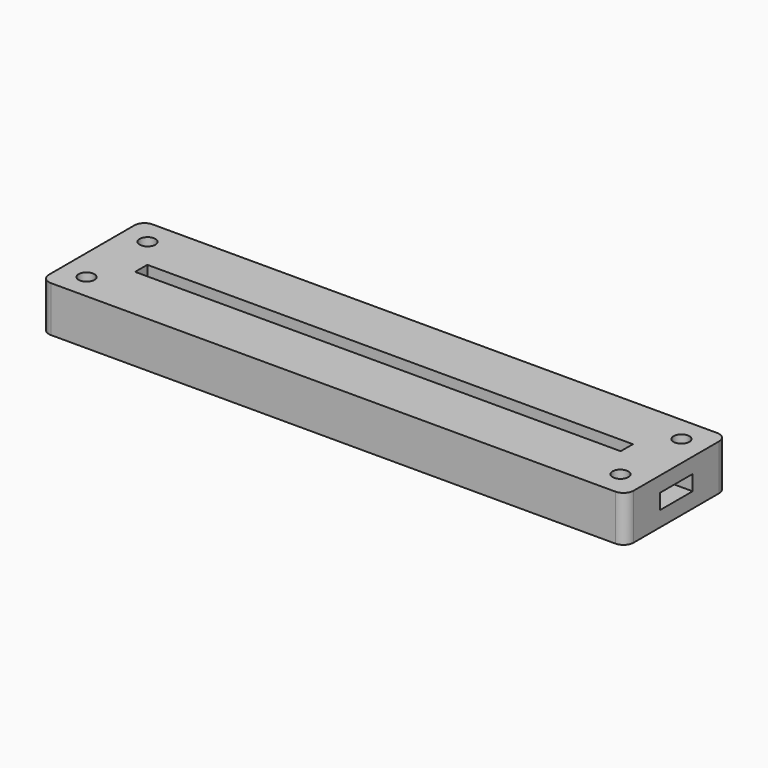
from build123d import *

# Parameters (mm, degrees)
SKETCH_W              = 115
SKETCH_H              = 25
PAD_DEPTH             = 3
PAD001_DEPTH          = 3
SKETCH002_W           = 115
SKETCH002_H           = 25
SKETCH002_W_2         = 95.5
SKETCH002_H_2         = 3
PAD002_DEPTH          = 3
SKETCH003_R           = 1.55
POCKET_DEPTH          = 245.060315
POLARPATTERN_COUNT    = 2
POLARPATTERN001_COUNT = 2
POLARPATTERN002_COUNT = 2
FILLET_R              = 2


with BuildPart() as part:
    # Sketch → Pad (new body)
    with BuildSketch(Plane.XY):
        Rectangle(SKETCH_W, SKETCH_H)
    extrude(amount=PAD_DEPTH)

    # Sketch001 (on Face6 of Pad) → Pad001 (join)
    with BuildSketch(Plane.XY.offset(3)):
        Polygon((-57.5, 12.5), (57.5, 12.5), (57.5, 4), (50, 4), (50, 5), (-50, 5), (-50, 4), (-57.5, 4), align=None)
        Polygon((-57.5, -12.5), (57.5, -12.5), (57.5, -4), (50, -4), (50, -5), (-50, -5), (-50, -4), (-57.5, -4), align=None)
    extrude(amount=PAD001_DEPTH)

    # Sketch002 (on Face12 of Pad001) → Pad002 (join)
    with BuildSketch(Plane.XY.offset(6)):
        Rectangle(SKETCH002_W, SKETCH002_H)
        Rectangle(SKETCH002_W_2, SKETCH002_H_2, mode=Mode.SUBTRACT)
    extrude(amount=PAD002_DEPTH)

    # Sketch003 (on Face26 of Pad002) → Pocket (cut, through all)
    with BuildSketch(Plane.XY.offset(9)):
        with Locations((-52.5, 7.5)):
            Circle(SKETCH003_R)
    pocket = extrude(amount=-POCKET_DEPTH, mode=Mode.SUBTRACT)

    # PolarPattern: Pocket ×2 about axis
    polarpattern_axis = Axis((0, 0, 0), (0, 1, 0))
    for i in range(1, POLARPATTERN_COUNT):
        add(pocket.rotate(polarpattern_axis, i * 360 / POLARPATTERN_COUNT), mode=Mode.SUBTRACT)

    # PolarPattern001: Pocket ×2 about axis
    polarpattern001_axis = Axis((0, 0, 0), (1, 0, 0))
    for i in range(1, POLARPATTERN001_COUNT):
        add(pocket.rotate(polarpattern001_axis, i * 360 / POLARPATTERN001_COUNT), mode=Mode.SUBTRACT)

    # PolarPattern002: Pocket ×2 about axis
    polarpattern002_axis = Axis((0, 0, 9), (0, 0, 1))
    for i in range(1, POLARPATTERN002_COUNT):
        add(pocket.rotate(polarpattern002_axis, i * 360 / POLARPATTERN002_COUNT), mode=Mode.SUBTRACT)

    # Fillet
    fillet_edges = [part.edges().sort_by_distance(p)[0] for p in [
        (57.5, 12.5, 7.5),
        (57.5, 12.5, 4.5),
        (57.5, 12.5, 1.5),
        (57.5, -12.5, 7.5),
        (-57.5, 12.5, 7.5),
        (-57.5, -12.5, 7.5),
    ]]
    fillet(fillet_edges, radius=FILLET_R)


solid = part.part
